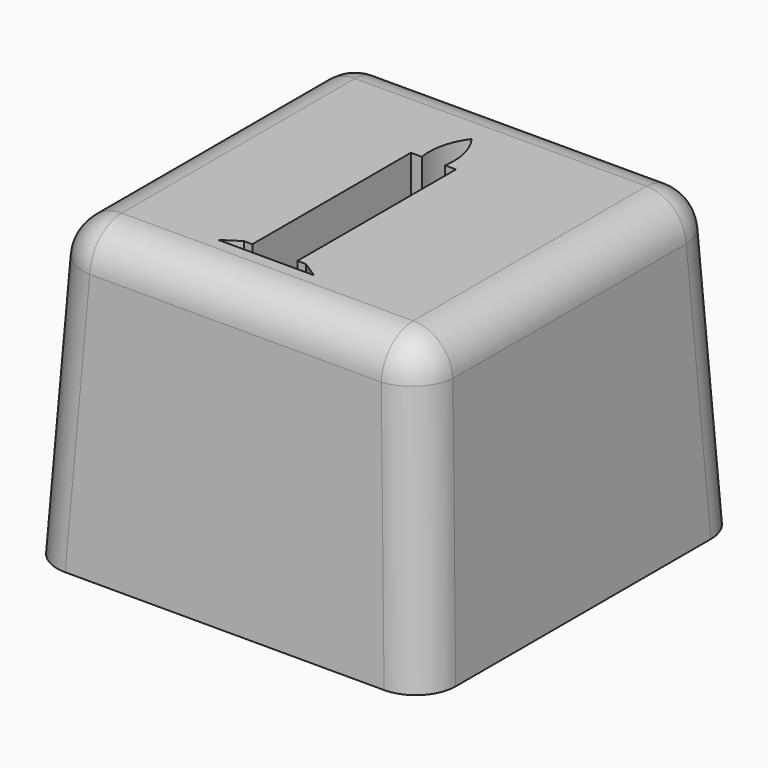
from build123d import *

# Parameters (mm, degrees)
F0_W     = 20
F0_H     = 20
F1_DEPTH = 15
F1_TAPER = 3
F2_R     = 2
F4_W     = 20
F4_H     = 20
F5_DEPTH = 15
F5_TAPER = 3
F6_R     = 2
F9_DEPTH = 3


with BuildPart() as f1:
    # F0 (on Top) → F1 (new body)
    with BuildSketch(Plane.XY):
        with Locations((1.3560000807, 2.0036636425)):
            Rectangle(F0_W, F0_H)
    extrude(amount=F1_DEPTH, taper=F1_TAPER)

    # F2
    f2_edges = [f1.edges().sort_by_distance(p)[0] for p in [
        (1.356, 11.217547, 15),
        (10.962941, 11.610605, 7.500009),
        (-8.250942, 11.610605, 7.5),
        (10.569883, 2.003664, 15),
        (10.962942, -7.603278, 7.5),
        (-8.250942, -7.603278, 7.5),
        (-7.857883, 2.003664, 15),
        (1.356, -7.21022, 15),
    ]]
    fillet(f2_edges, radius=F2_R)


with BuildPart() as f5:
    # F4 (on Top) → F5 (new body)
    with BuildSketch(Plane.XY):
        with Locations((2.0978832617, 1.2803806274)):
            Rectangle(F4_W, F4_H)
    extrude(amount=F5_DEPTH, taper=F5_TAPER)

    # F6
    f6_edges = [f5.edges().sort_by_distance(p)[0] for p in [
        (-7.509058, 10.887322, 7.5),
        (11.704824, 10.887322, 7.500009),
        (11.704825, -8.326561, 7.5),
        (11.311767, 1.280381, 15),
        (2.097883, 10.494264, 15),
        (-7.116, 1.280381, 15),
        (2.097883, -7.933503, 15),
        (-7.509058, -8.326561, 7.5),
    ]]
    fillet(f6_edges, radius=F6_R)

    # F8 (on face) → F9 (cut)
    with BuildSketch(Plane.XY.offset(15)):
        with BuildLine():
            Line((-0.838498876, -5.4438896477), (1.5617019963, -5.4438896477))
            Line((1.5617019963, -5.4438896477), (3.9619028685, -5.4438896477))
            Line((3.9619028685, -5.4438896477), (3.1234039925, -4.8952721991))
            Line((3.1234039925, -4.8952721991), (2.6932252222, -4.8952721991))
            Line((2.6932252222, -4.8952721991), (2.6932252222, 5.0484170206))
            Line((2.6932252222, 5.0484170206), (2.1446079481, 5.0484170206))
            ThreePointArc((2.1446079481, 5.0484170206), (2.0965612153, 6.3076305978), (1.5617019963, 7.4486183003))
            ThreePointArc((1.5617019963, 7.4486183003), (1.0268427772, 6.3076305978), (0.9787960444, 5.0484170206))
            Line((0.9787960444, 5.0484170206), (0.4301787703, 5.0484170206))
            Line((0.4301787703, 5.0484170206), (0.4301787703, -4.8952721991))
            Line((0.4301787703, -4.8952721991), (0, -4.8952721991))
            Line((0, -4.8952721991), (-0.838498876, -5.4438896477))
        make_face()
    extrude(amount=-F9_DEPTH, mode=Mode.SUBTRACT)


solid = f5.part
